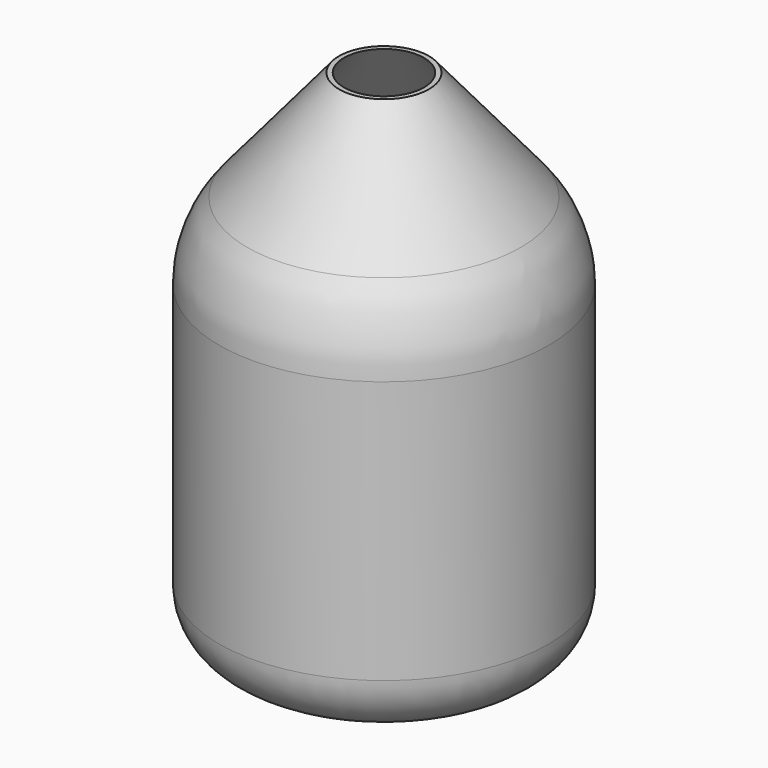
from build123d import *

# Parameters (mm, degrees)
F0_R     = 139.7
F1_DEPTH = 431.8
F2_R     = 50.8
F3_SIZE2 = 121.0821650076
F3_SIZE  = 101.6
F4_R     = 101.6
F5_T     = -3.175


with BuildPart() as f1:
    # F0 (on Top) → F1 (new body)
    with BuildSketch(Plane.XY):
        Circle(F0_R)
    extrude(amount=F1_DEPTH)

    # F2
    f2_edges = [f1.edges().sort_by_distance(p)[0] for p in [
        (-139.7, 0, 0),
    ]]
    fillet(f2_edges, radius=F2_R)

    # F3
    f3_edges = [f1.edges().sort_by_distance(p)[0] for p in [
        (-139.7, 0, 431.8),
    ]]
    f3_side = f1.faces().sort_by_distance((0, 0, 431.8))[0]
    chamfer(f3_edges, length=F3_SIZE, length2=F3_SIZE2, reference=f3_side)

    # F4
    f4_edges = [f1.edges().sort_by_distance(p)[0] for p in [
        (-139.7, 0, 310.717835),
    ]]
    fillet(f4_edges, radius=F4_R)

    # F5
    f5_openings = [f1.faces().sort_by_distance(p)[0] for p in [
        (0, 0, 431.8),
    ]]
    offset(amount=F5_T, openings=f5_openings)


solid = f1.part
